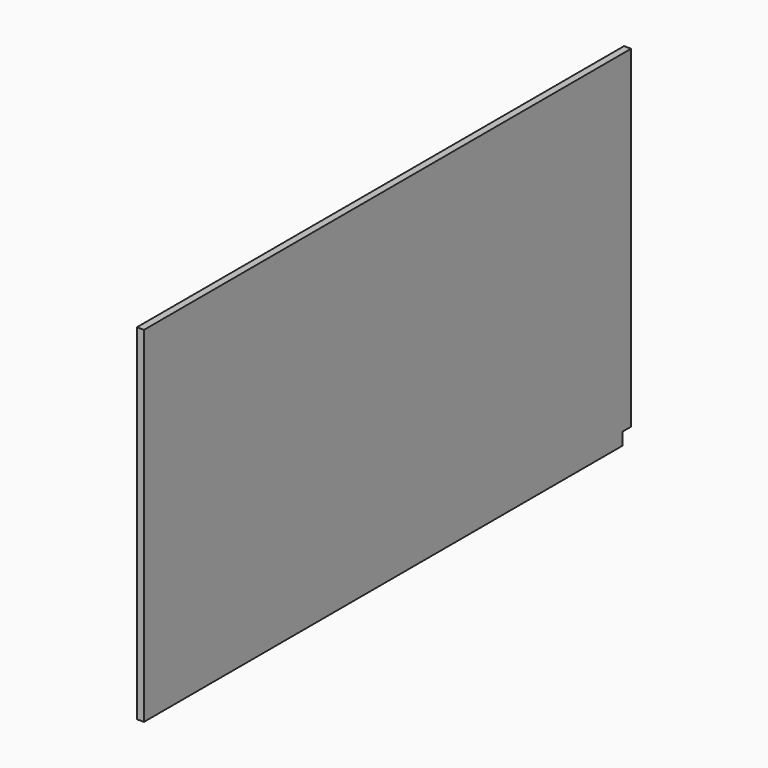
from build123d import *

# Parameters (mm, degrees)
F1_DEPTH = 4
F2_W     = 6
F2_H     = 188
F3_DEPTH = 25


with BuildPart() as f1:
    # F0 (on Right) → F1 (new body)
    with BuildSketch(Plane.YZ):
        Polygon((175, -90.5), (175, 97.5), (-175, 97.5), (-175, -97.5), (163, -97.5), (163, -90.5), align=None)
    extrude(amount=F1_DEPTH)

    # F2 (on face) → F3 (cut)
    with BuildSketch(Plane.YZ.offset(4)):
        with Locations((172, 3.5)):
            Rectangle(F2_W, F2_H)
    extrude(amount=-F3_DEPTH, mode=Mode.SUBTRACT)


solid = f1.part
